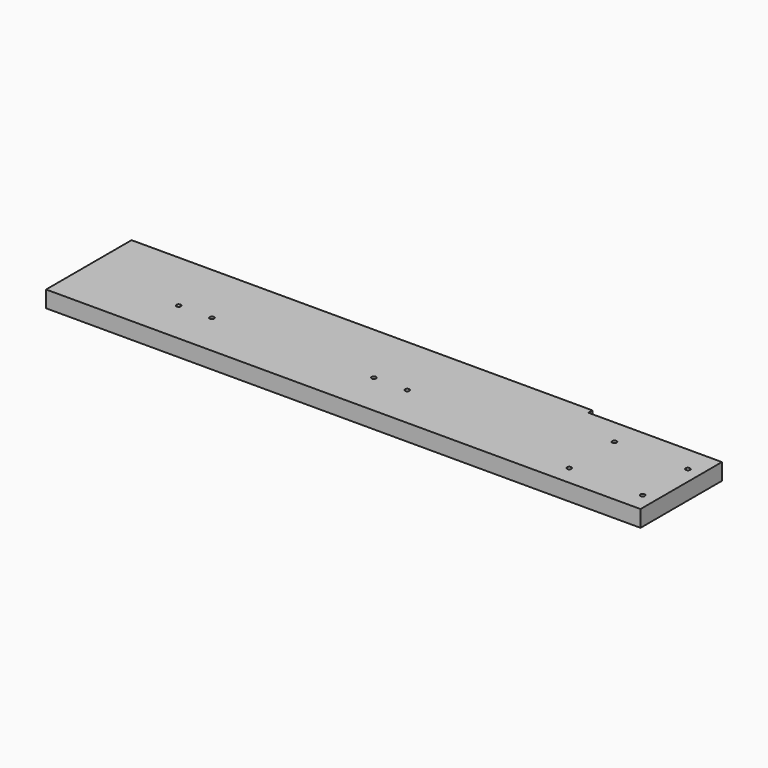
from build123d import *

# Parameters (mm, degrees)
F0_R     = 3.937
F0_R_2   = 2.1209
F1_DEPTH = 15.748
F2_DEPTH = 6.35


with BuildPart() as f1:
    # F0 (on Top) → F1 (new body)
    with BuildSketch(Plane.XY):
        Polygon((-282.575, -50.8), (282.575, -50.8), (282.575, 45.974), (155.575, 45.974), (155.575, 50.8), (-282.575, 50.8), align=None)
        with Locations((-189.611, -9.525)):
            Circle(F0_R, mode=Mode.SUBTRACT)
        with Locations((-157.861, -9.525)):
            Circle(F0_R, mode=Mode.SUBTRACT)
        with Locations((-3.937, -9.525)):
            Circle(F0_R, mode=Mode.SUBTRACT)
        with Locations((200.025, -32.385)):
            Circle(F0_R, mode=Mode.SUBTRACT)
        with Locations((269.875, -32.385)):
            Circle(F0_R, mode=Mode.SUBTRACT)
        with Locations((27.813, -9.525)):
            Circle(F0_R, mode=Mode.SUBTRACT)
        with Locations((200.025, 21.463)):
            Circle(F0_R, mode=Mode.SUBTRACT)
        with Locations((269.875, 21.463)):
            Circle(F0_R, mode=Mode.SUBTRACT)
        with Locations((200.025, 21.463)):
            Circle(F0_R)
        with Locations((200.025, 21.463)):
            Circle(F0_R_2, mode=Mode.SUBTRACT)
        with Locations((200.025, -32.385)):
            Circle(F0_R)
        with Locations((200.025, -32.385)):
            Circle(F0_R_2, mode=Mode.SUBTRACT)
        with Locations((269.875, -32.385)):
            Circle(F0_R)
        with Locations((269.875, -32.385)):
            Circle(F0_R_2, mode=Mode.SUBTRACT)
        with Locations((269.875, 21.463)):
            Circle(F0_R)
        with Locations((269.875, 21.463)):
            Circle(F0_R_2, mode=Mode.SUBTRACT)
        with Locations((27.813, -9.525)):
            Circle(F0_R)
        with Locations((27.813, -9.525)):
            Circle(F0_R_2, mode=Mode.SUBTRACT)
        with Locations((-3.937, -9.525)):
            Circle(F0_R)
        with Locations((-3.937, -9.525)):
            Circle(F0_R_2, mode=Mode.SUBTRACT)
        with Locations((-157.861, -9.525)):
            Circle(F0_R)
        with Locations((-157.861, -9.525)):
            Circle(F0_R_2, mode=Mode.SUBTRACT)
        with Locations((-189.611, -9.525)):
            Circle(F0_R)
        with Locations((-189.611, -9.525)):
            Circle(F0_R_2, mode=Mode.SUBTRACT)
    extrude(amount=F1_DEPTH)

    # F0 (on Top) → F2 (cut)
    with BuildSketch(Plane.XY):
        with Locations((-189.611, -9.525)):
            Circle(F0_R)
        with Locations((-189.611, -9.525)):
            Circle(F0_R_2, mode=Mode.SUBTRACT)
        with Locations((-157.861, -9.525)):
            Circle(F0_R)
        with Locations((-157.861, -9.525)):
            Circle(F0_R_2, mode=Mode.SUBTRACT)
        with Locations((-3.937, -9.525)):
            Circle(F0_R)
        with Locations((-3.937, -9.525)):
            Circle(F0_R_2, mode=Mode.SUBTRACT)
        with Locations((27.813, -9.525)):
            Circle(F0_R)
        with Locations((27.813, -9.525)):
            Circle(F0_R_2, mode=Mode.SUBTRACT)
        with Locations((200.025, 21.463)):
            Circle(F0_R)
        with Locations((200.025, 21.463)):
            Circle(F0_R_2, mode=Mode.SUBTRACT)
        with Locations((269.875, 21.463)):
            Circle(F0_R)
        with Locations((269.875, 21.463)):
            Circle(F0_R_2, mode=Mode.SUBTRACT)
        with Locations((269.875, -32.385)):
            Circle(F0_R)
        with Locations((269.875, -32.385)):
            Circle(F0_R_2, mode=Mode.SUBTRACT)
        with Locations((200.025, -32.385)):
            Circle(F0_R)
        with Locations((200.025, -32.385)):
            Circle(F0_R_2, mode=Mode.SUBTRACT)
    extrude(amount=F2_DEPTH, mode=Mode.SUBTRACT)


solid = f1.part
